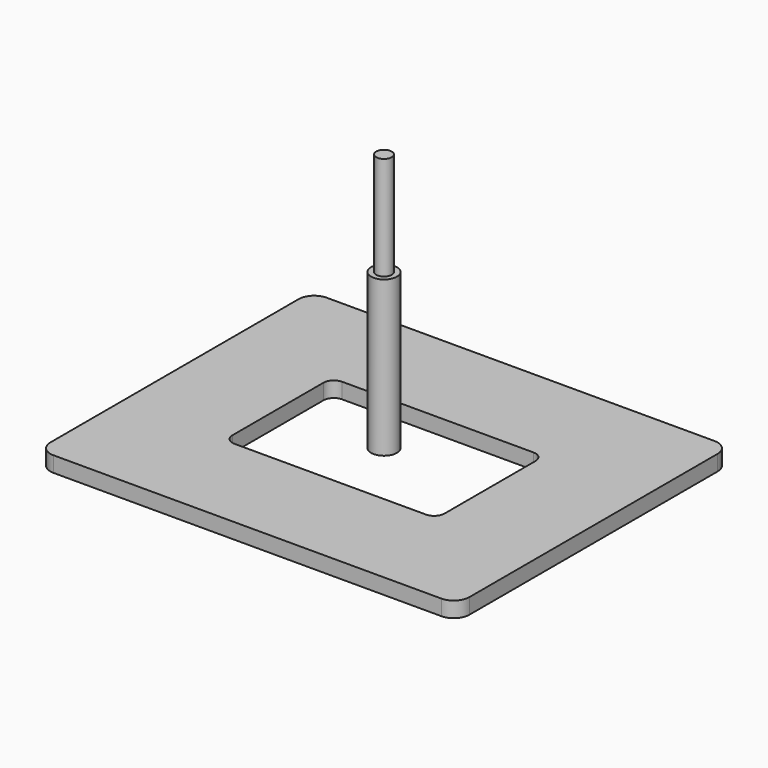
from build123d import *

# Parameters (mm, degrees)
SKETCH_W    = 81
SKETCH_H    = 66
SKETCH_W_2  = 41
SKETCH_H_2  = 26
PAD_DEPTH   = 3
FILLET_R    = 3
FILLET001_R = 2


with BuildPart() as body:
    # Sketch (on XY_Plane of Origin) → Pad (new body)
    with BuildSketch(Plane.XY):
        Rectangle(SKETCH_W, SKETCH_H)
        Rectangle(SKETCH_W_2, SKETCH_H_2, mode=Mode.SUBTRACT)
    extrude(amount=-PAD_DEPTH)

    # Fillet
    fillet_edges = [body.edges().sort_by_distance(p)[0] for p in [
        (40.5, -33, -1.5),
        (-40.5, -33, -1.5),
        (40.5, 33, -1.5),
        (-40.5, 33, -1.5),
    ]]
    fillet(fillet_edges, radius=FILLET_R)

    # Fillet001
    fillet001_edges = [body.edges().sort_by_distance(p)[0] for p in [
        (20.5, -13, -1.5),
        (-20.5, -13, -1.5),
        (-20.5, 13, -1.5),
        (20.5, 13, -1.5),
    ]]
    fillet(fillet001_edges, radius=FILLET001_R)


with BuildPart() as endmill003:
    # Sketch003 → Revolution (revolve)
    with BuildSketch(Plane.XZ):
        Polygon((0, 50), (0, 0), (2.5, 0), (2.5, 30), (1.5, 29.99), (1.5, 50), align=None)
    revolve(axis=Axis((0, 0, 0), (0, 0, 1)))


solid = Compound([body.part, endmill003.part])
